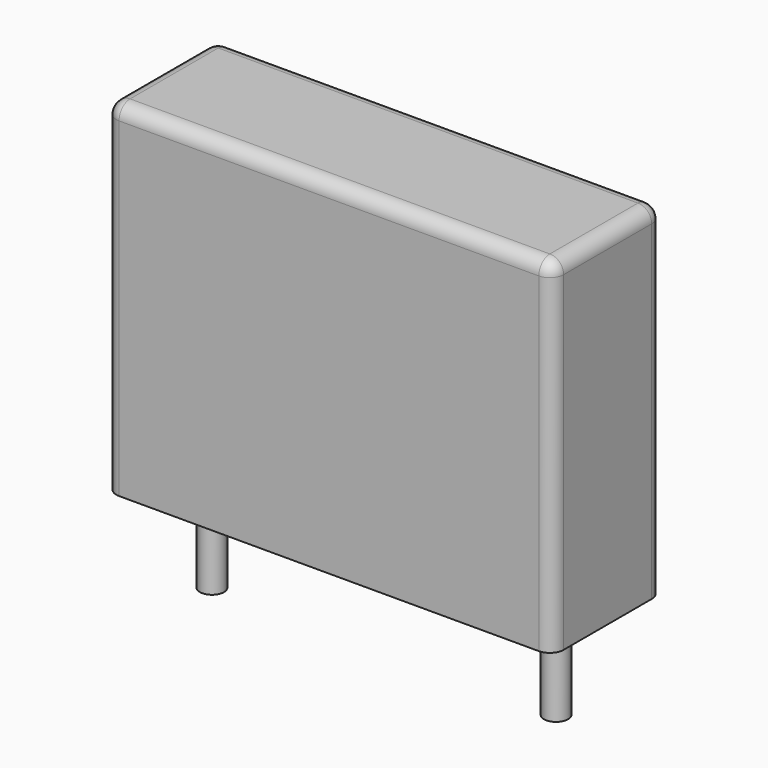
from build123d import *

# Parameters (mm, degrees)
SKETCH_W     = 13
SKETCH_H     = 4
PAD_DEPTH    = 10
FILLET_R     = 0.4
SKETCH001_R  = 0.35
PAD001_DEPTH = 3.2


with BuildPart() as fillet_body:
    # Sketch → Pad (new body)
    with BuildSketch(Plane.XY.offset(0.1)):
        with Locations((5, 0)):
            Rectangle(SKETCH_W, SKETCH_H)
    extrude(amount=PAD_DEPTH)

    # Fillet
    fillet_edges = [fillet_body.edges().sort_by_distance(p)[0] for p in [
        (-1.5, 0, 10.1),
        (-1.5, -2, 5.1),
        (5, -2, 10.1),
        (11.5, -2, 5.1),
        (11.5, 0, 10.1),
        (11.5, 2, 5.1),
        (5, 2, 10.1),
        (-1.5, 2, 5.1),
    ]]
    fillet(fillet_edges, radius=FILLET_R)


with BuildPart() as pad001:
    # Sketch001 → Pad001 (new body)
    with BuildSketch(Plane.XY.offset(0.5)):
        Circle(SKETCH001_R)
        with Locations((10, 0)):
            Circle(SKETCH001_R)
    extrude(amount=-PAD001_DEPTH)


solid = Compound([fillet_body.part, pad001.part])
